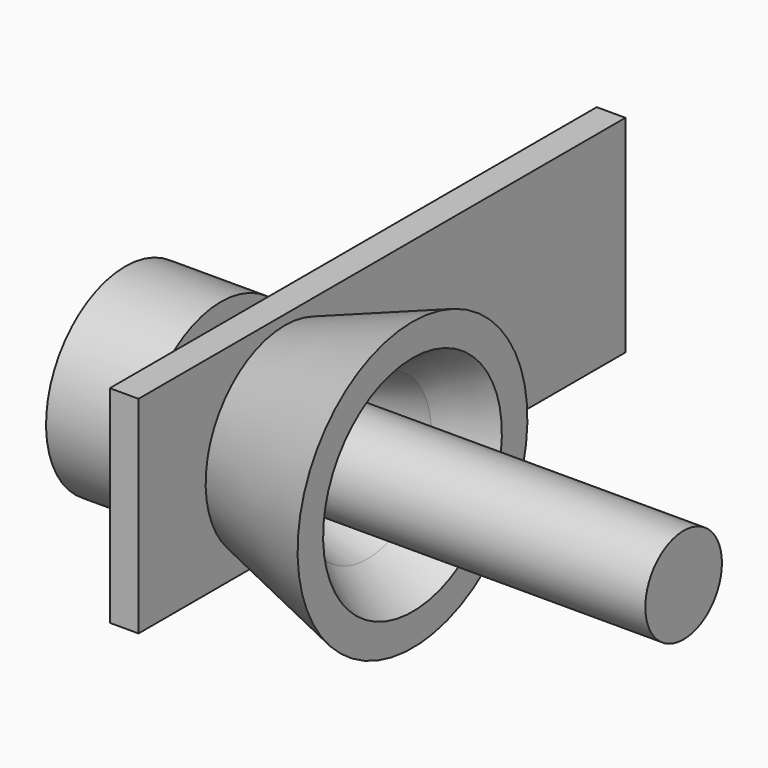
from build123d import *

# Parameters (mm, degrees)
F0_R     = 3
F1_DEPTH = 31
F3_W     = 38.133026
F3_H     = 12.944954
F3_R     = 4.25
F4_DEPTH = 1.8
F7_SIZE2 = 1
F7_SIZE  = 3


with BuildPart() as f1:
    # F0 (on Right) → F1 (new body)
    with BuildSketch(Plane.YZ):
        Circle(F0_R)
    extrude(amount=F1_DEPTH)


with BuildPart() as f4:
    # F3 (on offset) → F4 (new body)
    with BuildSketch(Plane.YZ.offset(4)):
        with Locations((7.876146, 0.155963)):
            Rectangle(F3_W, F3_H)
        Circle(F3_R, mode=Mode.SUBTRACT)
    extrude(amount=F4_DEPTH)


with BuildPart() as f6:
    # F5 (on Front) → F6 (revolve)
    with BuildSketch(Plane.XZ):
        Polygon((6.012275, 3.2), (14.012275, 6), (14.012275, 9), (6.012275, 6.2), (6.012275, 4.45), (2.012275, 4.45), (-1.987725, 3.2), (-0.814473, 3.2), align=None)
    revolve(axis=Axis((7.006137, 0, 0), (-1, 0, 0)))

    # F7
    f7_edges = [f6.edges().sort_by_distance(p)[0] for p in [
        (14.012275, 0, -6),
    ]]
    chamfer(f7_edges, length=F7_SIZE, length2=F7_SIZE2)


with BuildPart() as f8:
    # F5 (on Front) → F8 (revolve)
    with BuildSketch(Plane.XZ):
        Polygon((-3.987725, 3.2), (-1.987725, 3.2), (2.012275, 4.45), (2.012275, 6.2), (-3.987725, 6.2), align=None)
    revolve(axis=Axis((7.006137, 0, 0), (-1, 0, 0)))


solid = Compound([f1.part, f4.part, f6.part, f8.part])
